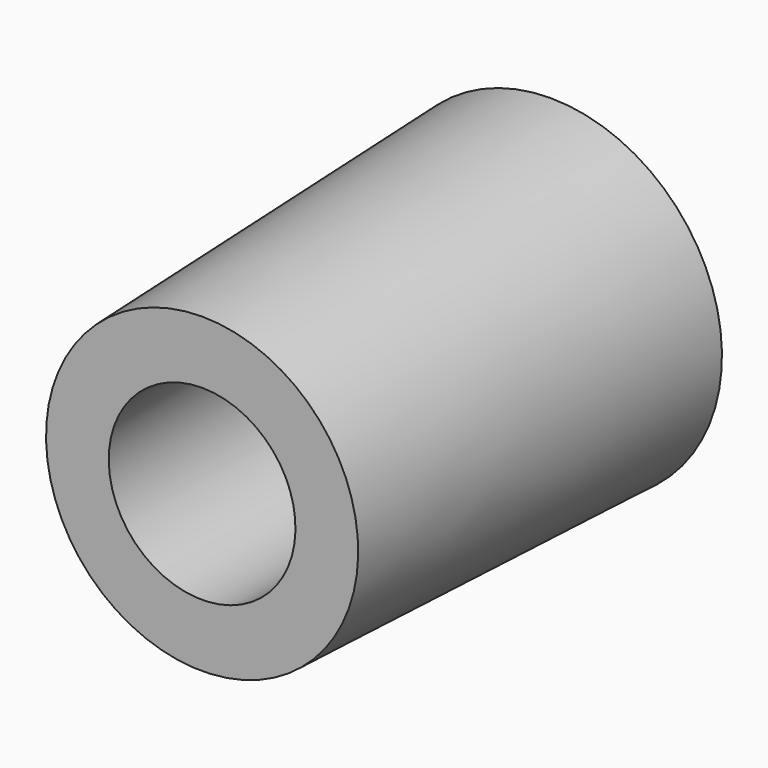
from build123d import *


with BuildPart() as f1:
    # F0 (on Right) → F1 (revolve)
    with BuildSketch(Plane.YZ):
        Polygon((0, 7.961486), (0, 4.7625), (22.225, 4.7625), (22.225, 8.7376), align=None)
    revolve(axis=Axis((0, 85.839292, 0), (0, 1, 0)))


solid = f1.part
